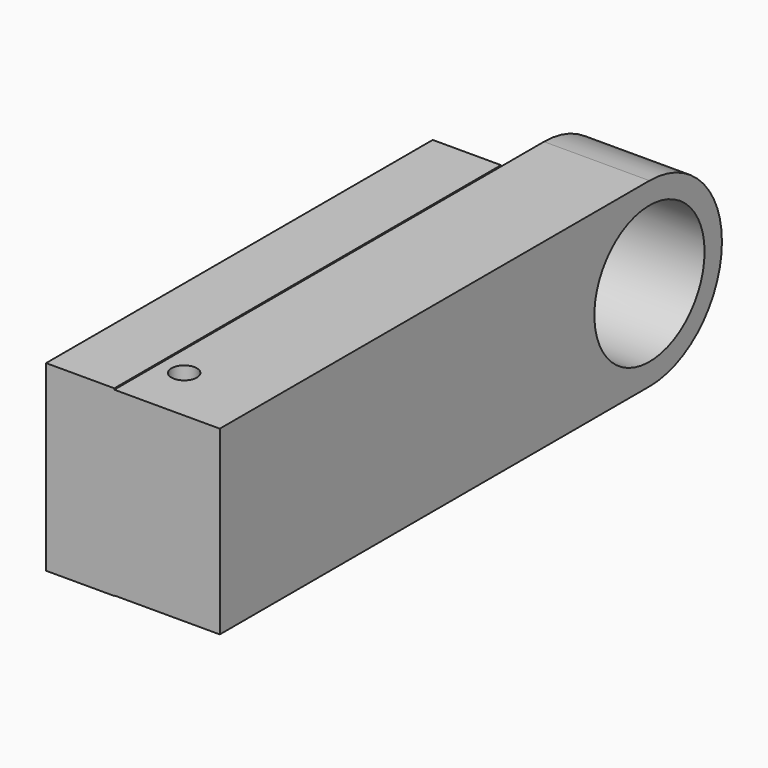
from build123d import *

# Parameters (mm, degrees)
PAD004_DEPTH    = 17
PAD005_DEPTH    = 11
SKETCH007_R     = 11.1
POCKET001_DEPTH = 35
SKETCH015_R     = 2.05
POCKET003_DEPTH = 5


with BuildPart() as part:
    # Sketch005 → Pad004 (new body)
    with BuildSketch(Plane.YZ.offset(11)):
        with BuildLine():
            Line((-15, -29.6), (-101.569351, -29.6))
            Line((-101.569351, -29.6), (-101.569351, -0.4))
            Line((-101.569351, -0.4), (-15, -0.4))
            ThreePointArc((-15, -29.6), (-0.4, -15), (-15, -0.4))
        make_face()
    extrude(amount=PAD004_DEPTH)

    # Sketch006 → Pad005 (join)
    with BuildSketch(Plane.YZ):
        with BuildLine():
            ThreePointArc((-23.665016, -0.2), (-32.149529, -14.872954), (-23.883333, -29.67))
            Line((-101.569351, -29.67), (-23.883333, -29.67))
            Line((-101.569351, -0.2), (-101.569351, -29.67))
            Line((-23.665016, -0.2), (-101.569351, -0.2))
        make_face()
    extrude(amount=PAD005_DEPTH)

    # Sketch007 → Pocket001 (cut)
    with BuildSketch(Plane.YZ):
        with Locations((-15, -15)):
            Circle(SKETCH007_R)
    extrude(amount=POCKET001_DEPTH, mode=Mode.SUBTRACT)

    # Sketch015 → Pocket003 (cut)
    with BuildSketch(Plane.XY):
        with Locations((15, -92.5)):
            Circle(SKETCH015_R)
    extrude(amount=-POCKET003_DEPTH, mode=Mode.SUBTRACT)


solid = part.part
